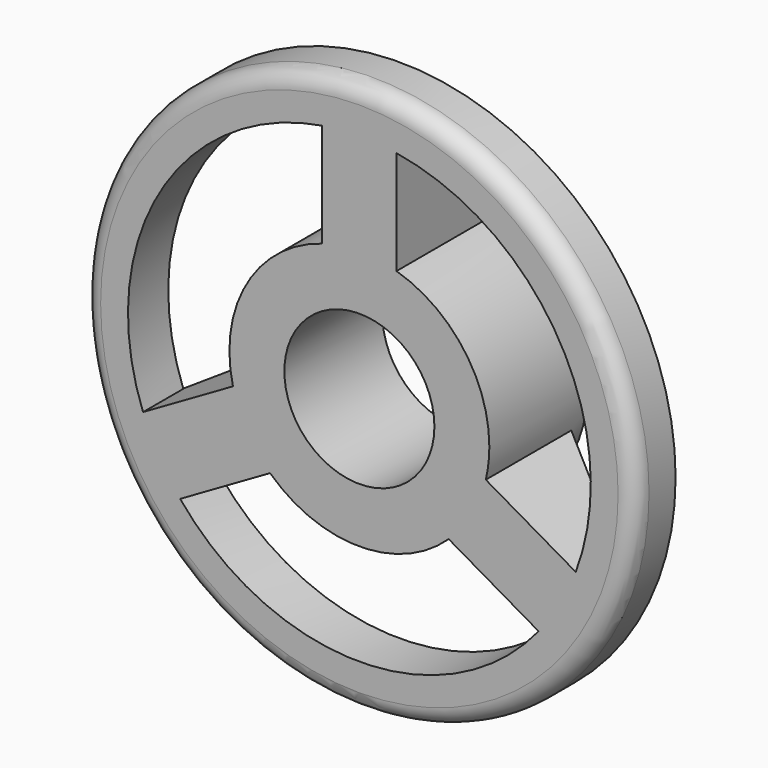
from build123d import *

# Parameters (mm, degrees)
F0_R      = 2.555
F0_R_2    = 1.475
F1_DEPTH  = 2.41
F2_W      = 1.46
F2_H      = 2.11
F3_DEPTH  = 2.1
F5_DEPTH  = 25
F7_DEPTH  = 25
F9_DEPTH  = 25
F10_R     = 5.425
F10_R_2   = 4.549258
F11_DEPTH = 0.99
F12_R     = 0.33799


with BuildPart() as f1:
    # F0 (on Front) → F1 (new body)
    with BuildSketch(Plane.XZ):
        Circle(F0_R)
        Circle(F0_R_2, mode=Mode.SUBTRACT)
    extrude(amount=F1_DEPTH)

    # F2 (on face) → F3 (join)
    with BuildSketch(Plane.XZ.offset(2.41)):
        with Locations((0, 3.503494)):
            Rectangle(F2_W, F2_H)
        Polygon((-3.582772, -2.911446), (-1.755458, -1.856446), (-2.485458, -0.592049), (-4.312772, -1.647049), align=None)
        Polygon((4.312772, -1.647049), (2.485458, -0.592049), (1.755458, -1.856446), (3.582772, -2.911446), align=None)
    extrude(amount=-F3_DEPTH)

    # F4 (on face) → F5 (cut)
    with BuildSketch(Plane(origin=(-0.365, 0, -0.632199), x_dir=(0.866025, 0, -0.5), z_dir=(-0.5, 0, -0.866025))):
        Polygon((4.558494, 1.42), (2.448494, 0.31), (3.479598, 0.083374), (4.896949, 0.210857), (4.896949, 2.56652), (4.714418, 2.478824), (4.714418, 1.641871), align=None)
    extrude(amount=-F5_DEPTH, mode=Mode.SUBTRACT)

    # F6 (on face) → F7 (cut)
    with BuildSketch(Plane(origin=(-0.73, 0, 0), x_dir=(0, -1, 0), z_dir=(-1, 0, 0))):
        Polygon((0.091005, 3.516779), (0.31, 2.448494), (1.42, 4.558494), (2.41, 4.741723), (0.190774, 5.01886), align=None)
    extrude(amount=-F7_DEPTH, mode=Mode.SUBTRACT)

    # F8 (on face) → F9 (cut)
    with BuildSketch(Plane(origin=(0.365, 0, -0.632199), x_dir=(0.866025, 0, 0.5), z_dir=(0.5, 0, -0.866025))):
        Polygon((-4.558494, 1.42), (-5.496076, 1.436378), (-4.840972, -0.092841), (-2.670947, -0.092841), (-2.448494, 0.31), align=None)
    extrude(amount=-F9_DEPTH, mode=Mode.SUBTRACT)

    # F10 (on face) → F11 (join)
    with BuildSketch(Plane.XZ.offset(2.41)):
        Circle(F10_R)
        Circle(F10_R_2, mode=Mode.SUBTRACT)
    extrude(amount=-F11_DEPTH)

    # F12
    f12_edges = [f1.edges().sort_by_distance(p)[0] for p in [
        (-5.425, -2.41, 0),
    ]]
    fillet(f12_edges, radius=F12_R)


solid = f1.part
